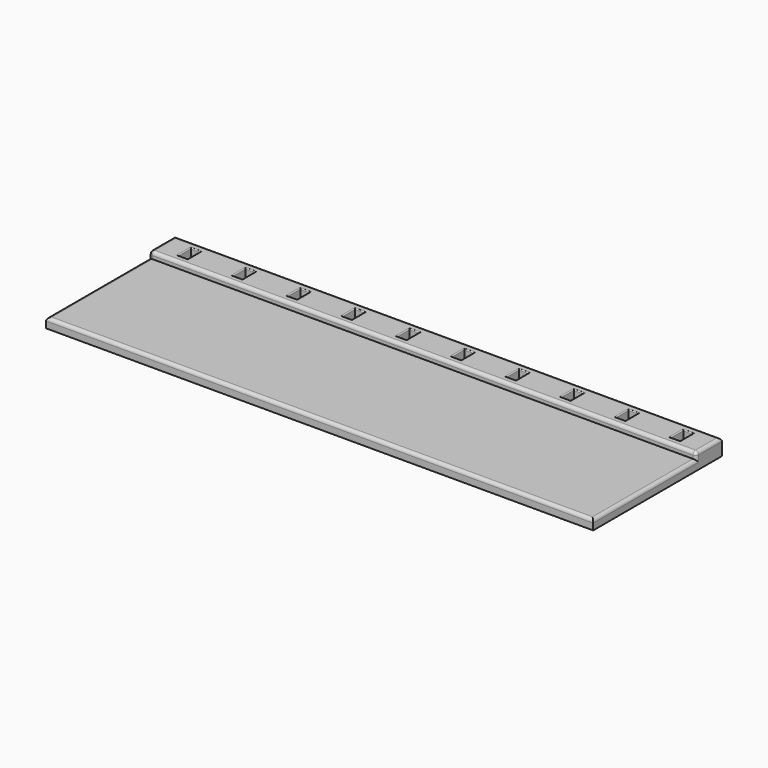
from build123d import *

# Parameters (mm, degrees)
SKETCH_W        = 170
SKETCH_H        = 50
PAD_DEPTH       = 5
SKETCH001_W     = 170
SKETCH001_H     = 40
POCKET_DEPTH    = 2
FILLET_R        = 1
SKETCH002_W     = 3
SKETCH002_H     = 5
POCKET001_DEPTH = 5.001
FILLET001_R     = 0.3
FILLET002_R     = 0.3


with BuildPart() as part:
    # Sketch → Pad (new body)
    with BuildSketch(Plane.XY):
        with Locations((85, 25)):
            Rectangle(SKETCH_W, SKETCH_H)
    extrude(amount=PAD_DEPTH)

    # Sketch001 (on Face6 of Pad) → Pocket (cut)
    with BuildSketch(Plane.XY.offset(5)):
        with Locations((85, 20)):
            Rectangle(SKETCH001_W, SKETCH001_H)
    extrude(amount=-POCKET_DEPTH, mode=Mode.SUBTRACT)

    # Fillet
    fillet_edges = [part.edges().sort_by_distance(p)[0] for p in [
        (0, 20, 3),
        (85, 0, 3),
        (170, 20, 3),
        (85, 40, 5),
        (170, 45, 5),
        (85, 50, 5),
        (0, 45, 5),
        (0, 40, 4),
        (170, 40, 4),
    ]]
    fillet(fillet_edges, radius=FILLET_R)

    # Sketch002 (on Face10 of Fillet) → Pocket001 (cut, through all)
    with BuildSketch(Plane.XY.offset(5)):
        with Locations((8.5, 45)):
            Rectangle(SKETCH002_W, SKETCH002_H)
        with Locations((25.5, 45)):
            Rectangle(SKETCH002_W, SKETCH002_H)
        with Locations((42.5, 45)):
            Rectangle(SKETCH002_W, SKETCH002_H)
        with Locations((161.5, 45)):
            Rectangle(SKETCH002_W, SKETCH002_H)
        with Locations((59.5, 45)):
            Rectangle(SKETCH002_W, SKETCH002_H)
        with Locations((76.5, 45)):
            Rectangle(SKETCH002_W, SKETCH002_H)
        with Locations((93.5, 45)):
            Rectangle(SKETCH002_W, SKETCH002_H)
        with Locations((110.5, 45)):
            Rectangle(SKETCH002_W, SKETCH002_H)
        with Locations((127.5, 45)):
            Rectangle(SKETCH002_W, SKETCH002_H)
        with Locations((144.5, 45)):
            Rectangle(SKETCH002_W, SKETCH002_H)
    extrude(amount=-POCKET001_DEPTH, mode=Mode.SUBTRACT)

    # Fillet001
    fillet001_edges = [part.edges().sort_by_distance(p)[0] for p in [
        (10, 45, 5),
        (8.5, 42.5, 5),
        (7, 45, 5),
        (8.5, 47.5, 5),
        (25.5, 47.5, 5),
        (24, 45, 5),
        (25.5, 42.5, 5),
        (27, 45, 5),
        (41, 45, 5),
        (42.5, 47.5, 5),
        (44, 45, 5),
        (42.5, 42.5, 5),
        (59.5, 47.5, 5),
        (58, 45, 5),
        (61, 45, 5),
        (59.5, 42.5, 5),
        (76.5, 47.5, 5),
        (75, 45, 5),
        (76.5, 42.5, 5),
        (78, 45, 5),
        (92, 45, 5),
        (93.5, 47.5, 5),
        (95, 45, 5),
        (93.5, 42.5, 5),
        (110.5, 47.5, 5),
        (109, 45, 5),
        (112, 45, 5),
        (110.5, 42.5, 5),
        (127.5, 47.5, 5),
        (126, 45, 5),
        (129, 45, 5),
        (127.5, 42.5, 5),
        (143, 45, 5),
        (144.5, 47.5, 5),
        (146, 45, 5),
        (144.5, 42.5, 5),
        (161.5, 47.5, 5),
        (160, 45, 5),
        (163, 45, 5),
        (161.5, 42.5, 5),
    ]]
    fillet(fillet001_edges, radius=FILLET001_R)

    # Fillet002
    fillet002_edges = [part.edges().sort_by_distance(p)[0] for p in [
        (7, 45, 0),
        (8.5, 42.5, 0),
        (10, 45, 0),
        (8.5, 47.5, 0),
        (25.5, 42.5, 0),
        (24, 45, 0),
        (25.5, 47.5, 0),
        (27, 45, 0),
        (42.5, 42.5, 0),
        (41, 45, 0),
        (44, 45, 0),
        (42.5, 47.5, 0),
        (58, 45, 0),
        (59.5, 42.5, 0),
        (61, 45, 0),
        (59.5, 47.5, 0),
        (76.5, 42.5, 0),
        (75, 45, 0),
        (76.5, 47.5, 0),
        (78, 45, 0),
        (92, 45, 0),
        (93.5, 42.5, 0),
        (95, 45, 0),
        (93.5, 47.5, 0),
        (110.5, 42.5, 0),
        (109, 45, 0),
        (110.5, 47.5, 0),
        (112, 45, 0),
        (127.5, 42.5, 0),
        (126, 45, 0),
        (127.5, 47.5, 0),
        (129, 45, 0),
        (143, 45, 0),
        (144.5, 42.5, 0),
        (146, 45, 0),
        (144.5, 47.5, 0),
        (161.5, 42.5, 0),
        (160, 45, 0),
        (163, 45, 0),
        (161.5, 47.5, 0),
    ]]
    fillet(fillet002_edges, radius=FILLET002_R)


solid = part.part
